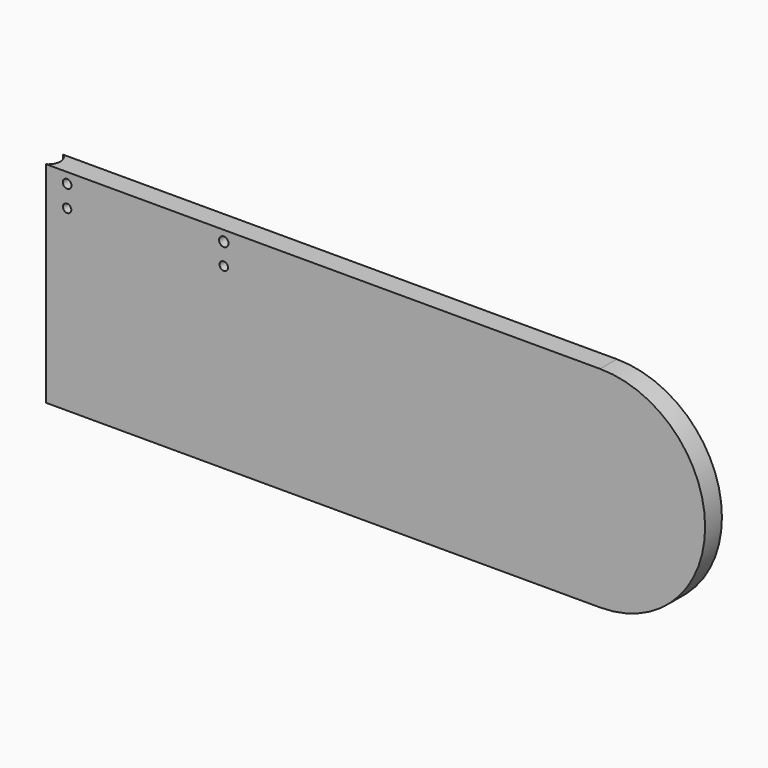
from build123d import *

# Parameters (mm, degrees)
F1_DEPTH = 30
F2_R     = 6.223398
F2_R_2   = 5.996206
F2_R_3   = 6.721343
F2_R_4   = 6.043049
F3_DEPTH = 35
F4_R     = 17.538538
F5_DEPTH = 500


with BuildPart() as f1:
    # F0 (on Front) → F1 (new body)
    with BuildSketch(Plane.XZ):
        with BuildLine():
            Line((-400.257468, -150.029927), (400.257468, -150.029927))
            ThreePointArc((400.257468, -150.029927), (550.287396, 0), (400.257468, 150.029927))
            Line((400.257468, 150.029927), (-400.257468, 150.029927))
            Line((-400.257468, 150.029927), (-400.257468, -150.029927))
        make_face()
    extrude(amount=F1_DEPTH)

    # F2 (on face) → F3 (cut)
    with BuildSketch(Plane.XZ.offset(30)):
        with Locations((-361.057468, 135.091782)):
            Circle(F2_R)
        with Locations((-361.057468, 104.35146)):
            Circle(F2_R_2)
        with Locations((-137.267468, 135.091782)):
            Circle(F2_R_3)
        with Locations((-137.267468, 104.35146)):
            Circle(F2_R_4)
    extrude(amount=-F3_DEPTH, mode=Mode.SUBTRACT)

    # F4 (on Top) → F5 (cut, symmetric)
    with BuildSketch(Plane.XY):
        with Locations((-400.190324, -14.999421)):
            Circle(F4_R)
    extrude(amount=F5_DEPTH, both=True, mode=Mode.SUBTRACT)


solid = f1.part
